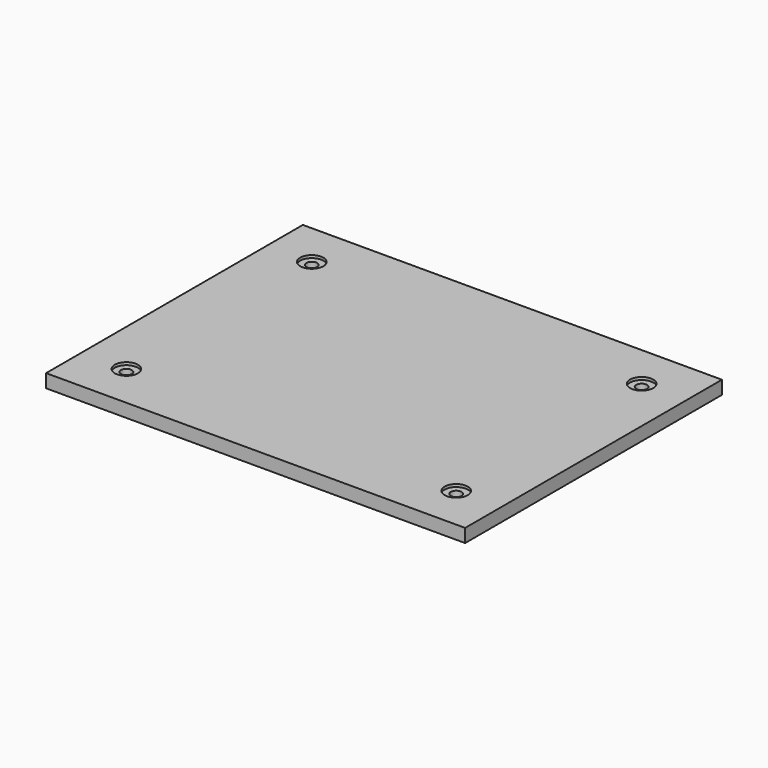
from build123d import *

# Parameters (mm, degrees)
F0_W           = 470
F0_H           = 360
F1_DEPTH       = 15
F3_D           = 12.2
F3_DEPTH       = 15
F3_CBORE_D     = 26
F3_CBORE_DEPTH = 3


with BuildPart() as f1:
    # F0 (on Top) → F1 (new body)
    with BuildSketch(Plane.XY):
        with Locations((235, 180)):
            Rectangle(F0_W, F0_H)
    extrude(amount=F1_DEPTH)

    # F3
    with Locations(Plane.XY.offset(15)):
        with Locations((50, 310), (50, 50), (420, 50), (420, 310)):
            CounterBoreHole(F3_D / 2, F3_CBORE_D / 2, F3_CBORE_DEPTH, depth=F3_DEPTH)


solid = f1.part
